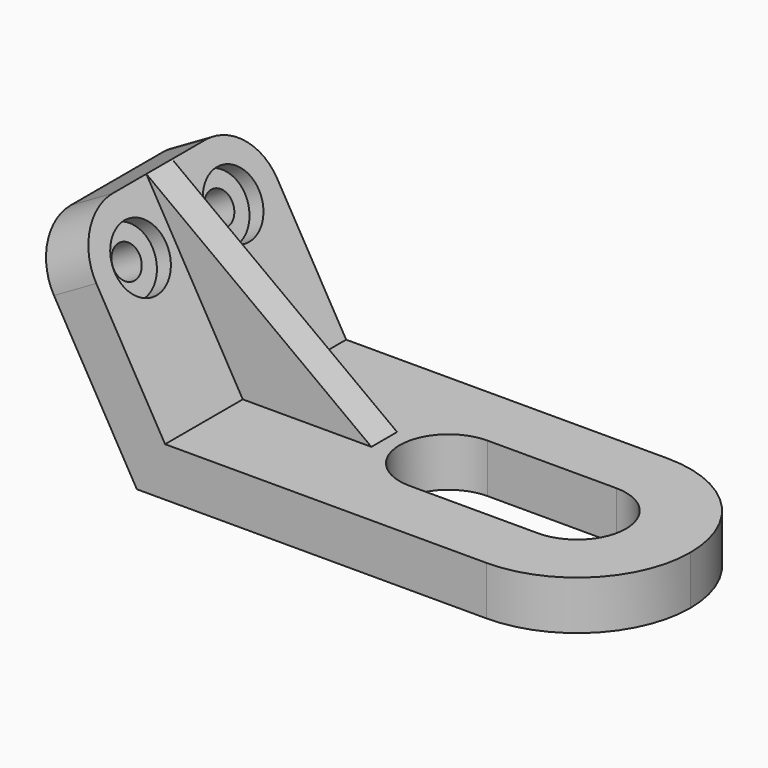
from build123d import *

# Parameters (mm, degrees)
F1_DEPTH = 22.352
F2_DEPTH = 3.175
F4_DEPTH = 9.652
F5_R     = 6.35
F5_R_2   = 3.175
F6_DEPTH = 3.175
F7_DEPTH = 25.4
F8_R     = 10.922


with BuildPart() as f1:
    # F0 (on Front) → F1 (new body, symmetric)
    with BuildSketch(Plane.XZ):
        Polygon((91.4245847982, 0), (91.4245847982, 9.652), (30.9725847982, 9.652), (5.5725847982, 9.652), (-13.4774152018, 42.6475678842), (-21.8362923991, 37.8215678842), (0, 0), align=None)
    extrude(amount=F1_DEPTH, both=True)

    # F0 (on Front) → F2 (join, symmetric)
    with BuildSketch(Plane.XZ):
        Polygon((5.5725847982, 9.652), (30.9725847982, 9.652), (-13.4774152018, 42.6475678842), align=None)
    extrude(amount=F2_DEPTH, both=True)

    # F3 (on face) → F4 (cut)
    with BuildSketch(Plane.XY.offset(9.652)):
        with BuildLine():
            Line((69.0725847982, 9.652), (43.6725847982, 9.652))
            ThreePointArc((43.6725847982, 9.652), (34.0205847982, 0), (43.6725847982, -9.652))
            Line((43.6725847982, -9.652), (69.0725847982, -9.652))
            Line((69.0725847982, -9.652), (69.0725847982, 9.652))
        make_face()
        with BuildLine():
            ThreePointArc((69.0725847982, -9.652), (78.7245847982, 0), (69.0725847982, 9.652))
            Line((69.0725847982, 9.652), (69.0725847982, -9.652))
        make_face()
        with BuildLine():
            Line((91.4245847982, 22.352), (69.0725847982, 22.352))
            ThreePointArc((69.0725847982, 22.352), (84.8778355713, 15.8052507731), (91.4245847982, 0))
            Line((91.4245847982, 0), (91.4245847982, 22.352))
        make_face()
        with BuildLine():
            ThreePointArc((91.4245847982, 0), (84.8778355713, -15.8052507731), (69.0725847982, -22.352))
            Line((69.0725847982, -22.352), (91.4245847982, -22.352))
            Line((91.4245847982, -22.352), (91.4245847982, 0))
        make_face()
    extrude(amount=-F4_DEPTH, mode=Mode.SUBTRACT)

    # F5 (on face) → F6 (cut)
    with BuildSketch(Plane(origin=(8.3588771973, 0, 4.826), x_dir=(0, 1, 0), z_dir=(0.8660254038, 0, 0.5))):
        with Locations((-11.43, 32.7505847982)):
            Circle(F5_R)
        with Locations((-11.43, 32.7505847982)):
            Circle(F5_R_2, mode=Mode.SUBTRACT)
        with Locations((11.43, 32.7505847982)):
            Circle(F5_R)
        with Locations((11.43, 32.7505847982)):
            Circle(F5_R_2, mode=Mode.SUBTRACT)
    extrude(amount=-F6_DEPTH, mode=Mode.SUBTRACT)

    # F7 (cut): faces of the model
    f7_faces = [f1.faces().sort_by_distance(p)[0] for p in [
        (-8.0164152018, -11.43, 33.1888384241),
        (-8.0164152018, 11.43, 33.1888384241),
    ]]
    extrude(f7_faces, amount=-F7_DEPTH, mode=Mode.SUBTRACT)

    # F8
    f8_edges = [f1.edges().sort_by_distance(p)[0] for p in [
        (-17.656854, -22.352, 40.234568),
        (-17.656854, 22.352, 40.234568),
    ]]
    fillet(f8_edges, radius=F8_R)


solid = f1.part
